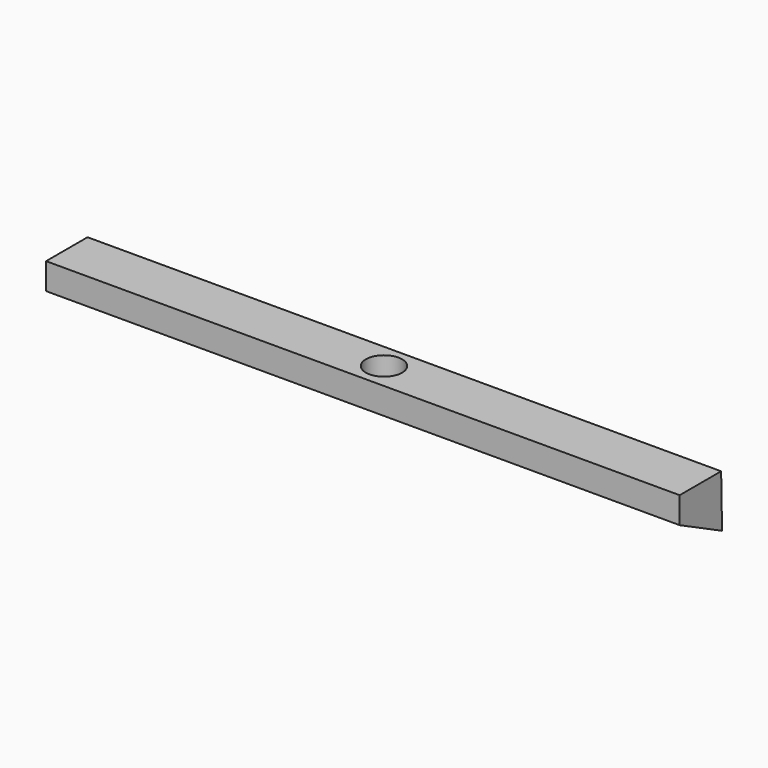
from build123d import *

# Parameters (mm, degrees)
F0_W     = 25.4
F0_H     = 25.4
F1_DEPTH = 152.4
F3_D     = 17.4625
F3_DEPTH = 20.0025
F3_TIP   = 5.2462642799
F5_DEPTH = 304.801
F7_DEPTH = 304.801


with BuildPart() as f1:
    # F0 (on Right) → F1 (new body, symmetric)
    with BuildSketch(Plane.YZ):
        Rectangle(F0_W, F0_H)
    extrude(amount=F1_DEPTH, both=True)

    # F3
    with Locations(Plane.XY.offset(12.7)):
        with Locations((0, 0)):
            Hole(F3_D / 2, depth=F3_DEPTH)
            with Locations((0, 0, -(F3_DEPTH + F3_TIP / 2))):  # 118° drill point
                Cone(0, F3_D / 2, F3_TIP, mode=Mode.SUBTRACT)

    # F4 (on face) → F5 (cut, through all)
    with BuildSketch(Plane.YZ.offset(152.4)):
        Polygon((12.7, -12.7), (-12.7, 0), (-12.7, -12.7), align=None)
    extrude(amount=-F5_DEPTH, mode=Mode.SUBTRACT)

    # F6 (on face) → F7 (cut, through all)
    with BuildSketch(Plane.YZ.offset(152.4)):
        Polygon((12.2289045241, 12.7), (12.7, -8.89), (12.7, 12.7), align=None)
    extrude(amount=-F7_DEPTH, mode=Mode.SUBTRACT)


solid = f1.part
